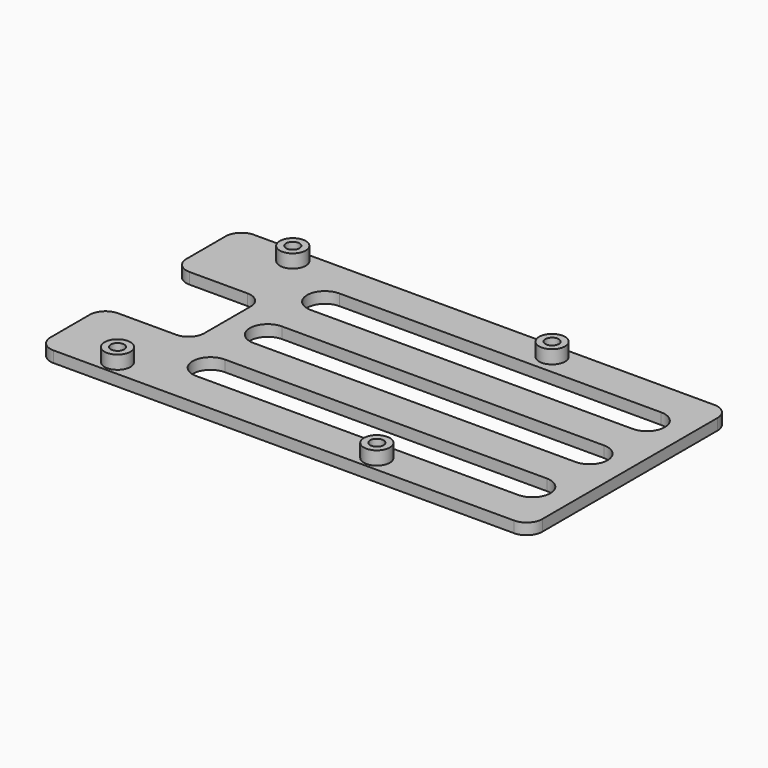
from build123d import *

# Parameters (mm, degrees)
SKETCH_W            = 110
SKETCH_H            = 28
PAD_DEPTH           = 2.5
SKETCH001_R         = 2.9
PAD001_DEPTH        = 3
SKETCH002_R         = 1.5
POCKET_DEPTH        = 5.501
POCKET001_DEPTH     = 2.501
LINEARPATTERN_COUNT = 2
LINEARPATTERN_PITCH = 16
SKETCH004_W         = 20
SKETCH004_H         = 10
POCKET002_DEPTH     = 2.501
FILLET_R            = 3.5


with BuildPart() as part:
    # Sketch → Pad (new body)
    with BuildSketch(Plane.XY):
        with Locations((55, 14)):
            Rectangle(SKETCH_W, SKETCH_H)
    extrude(amount=PAD_DEPTH)

    # Sketch001 (on Face6 of Pad) → Pad001 (join)
    with BuildSketch(Plane.XY.offset(2.5)):
        with Locations((15, 24.5)):
            Circle(SKETCH001_R)
        with Locations((73, 24.5)):
            Circle(SKETCH001_R)
    extrude(amount=PAD001_DEPTH)

    # Sketch002 (on Face9 of Pad001) → Pocket (cut, through all)
    with BuildSketch(Plane.XY.offset(5.5)):
        with Locations((15, 24.5)):
            Circle(SKETCH002_R)
        with Locations((73, 24.5)):
            Circle(SKETCH002_R)
    extrude(amount=-POCKET_DEPTH, mode=Mode.SUBTRACT)

    # Sketch003 (on Face5 of Pocket) → Pocket001 (cut, through all)
    with BuildSketch(Plane.XY.offset(2.5)):
        with BuildLine():
            ThreePointArc((29, 4), (25, 0), (29, -4))
            Line((29, -4), (101, -4))
            ThreePointArc((101, -4), (105, 0), (101, 4))
            Line((29, 4), (101, 4))
        make_face()
    pocket001 = extrude(amount=-POCKET001_DEPTH, mode=Mode.SUBTRACT)

    # LinearPattern: Pocket001 ×2
    with Locations(*[(0, i * LINEARPATTERN_PITCH, 0) for i in range(1, LINEARPATTERN_COUNT)]):
        add(pocket001, mode=Mode.SUBTRACT)

    # Sketch004 (on Face4 of LinearPattern) → Pocket002 (cut, through all)
    with BuildSketch(Plane.XY.offset(2.5)):
        with Locations((10, 5)):
            Rectangle(SKETCH004_W, SKETCH004_H)
    extrude(amount=-POCKET002_DEPTH, mode=Mode.SUBTRACT)

    # Fillet
    fillet_edges = [part.edges().sort_by_distance(p)[0] for p in [
        (20, 10, 1.25),
        (0, 10, 1.25),
        (0, 28, 1.25),
        (110, 28, 1.25),
    ]]
    fillet(fillet_edges, radius=FILLET_R)

    # Mirrored: part across XZ


with BuildPart() as part_1:
    add(part.part)
    add(part.part.mirror(Plane.XZ))


solid = part_1.part
